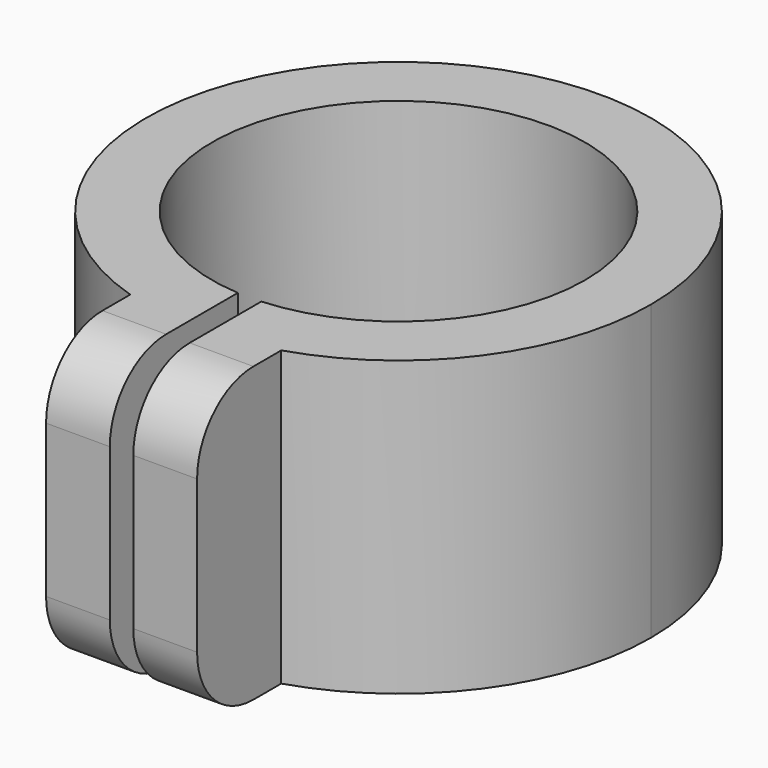
from build123d import *

# Parameters (mm, degrees)
F1_DEPTH = 25
F2_R     = 6


with BuildPart() as f1:
    # F0 (on Top) → F1 (new body)
    with BuildSketch(Plane.XY):
        with BuildLine():
            ThreePointArc((-1, -15.8685223005), (-10.8837034138, 11.5911604251), (15.9, 0))
            ThreePointArc((15.9, 0), (11.5911604251, -10.8837034138), (1, -15.8685223005))
            Line((1, -15.8685223005), (1, -21.4993559434))
            ThreePointArc((1, -21.4993559434), (3.7486287757, -21.1936332016), (6.4353626221, -20.5379749221))
            ThreePointArc((6.4353626221, -20.5379749221), (17.3454322638, -12.741989074), (21.522599889, 0))
            ThreePointArc((21.522599889, 0), (-12.741989074, 17.3454322638), (-6.4353626221, -20.5379749221))
            ThreePointArc((-6.4353626221, -20.5379749221), (-3.7486287757, -21.1936332016), (-1, -21.4993559434))
            Line((-1, -21.4993559434), (-1, -15.8685223005))
        make_face()
        with BuildLine():
            Line((-1, -29.5017492026), (-1, -21.4993559434))
            ThreePointArc((-1, -21.4993559434), (-3.7486287757, -21.1936332016), (-6.4353626221, -20.5379749221))
            Line((-6.4353626221, -20.5379749221), (-6.4353626221, -29.5017492026))
            Line((-6.4353626221, -29.5017492026), (-1, -29.5017492026))
        make_face()
        with BuildLine():
            ThreePointArc((6.4353626221, -20.5379749221), (3.7486287757, -21.1936332016), (1, -21.4993559434))
            Line((1, -21.4993559434), (1, -29.5017492026))
            Line((1, -29.5017492026), (6.4353626221, -29.5017492026))
            Line((6.4353626221, -29.5017492026), (6.4353626221, -20.5379749221))
        make_face()
    extrude(amount=F1_DEPTH)

    # F2
    f2_edges = [f1.edges().sort_by_distance(p)[0] for p in [
        (3.717681, -29.501749, 25),
        (-3.717681, -29.501749, 25),
        (3.717681, -29.501749, 0),
        (-3.717681, -29.501749, 0),
    ]]
    fillet(f2_edges, radius=F2_R)


solid = f1.part
